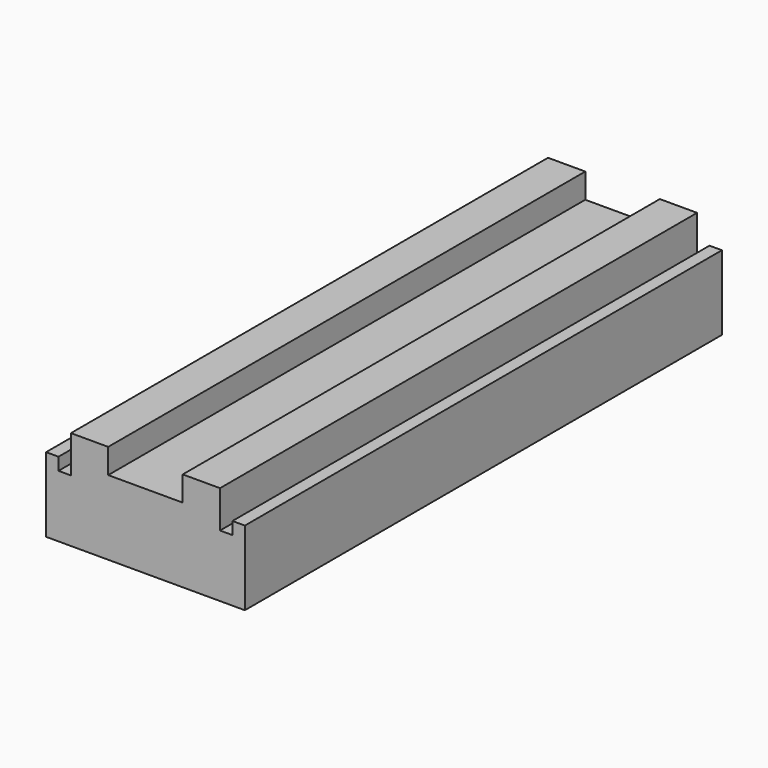
from build123d import *

# Parameters (mm, degrees)
F1_DEPTH = 1219.2


with BuildPart() as f1:
    # F0 (on Front) → F1 (new body)
    with BuildSketch(Plane.XZ):
        Polygon((-76.2, 50.8), (-76.2, 101.6), (-152.4, 101.6), (-152.4, 25.4), (-177.8, 25.4), (-177.8, 50.8), (-203.2, 50.8), (-203.2, -101.6), (0, -101.6), (203.2, -101.6), (203.2, 50.8), (177.8, 50.8), (177.8, 25.4), (152.4, 25.4), (152.4, 101.6), (76.2, 101.6), (76.2, 50.8), align=None)
    extrude(amount=-F1_DEPTH)


solid = f1.part
